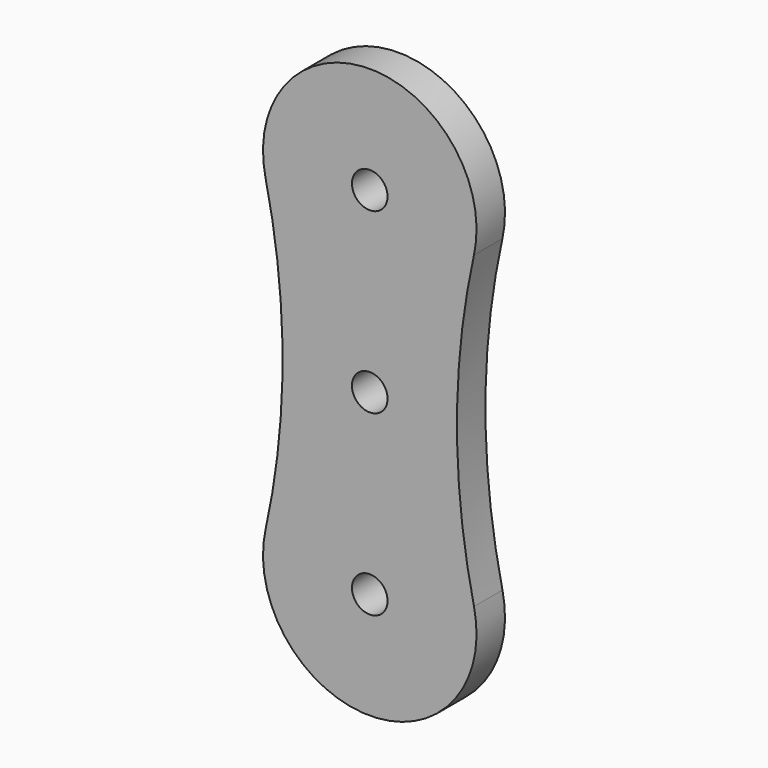
from build123d import *

# Parameters (mm, degrees)
F0_R     = 25.4
F1_DEPTH = 50.8


with BuildPart() as f1:
    # F0 (on Front) → F1 (new body)
    with BuildSketch(Plane.XZ):
        with BuildLine():
            ThreePointArc((-148.755283, 474.869565), (-124.457171, 254), (-148.755283, 33.130435))
            ThreePointArc((-148.755283, 33.130435), (0, -152.4), (148.755283, 33.130435))
            ThreePointArc((148.755283, 33.130435), (124.457171, 254), (148.755283, 474.869565))
            ThreePointArc((148.755283, 474.869565), (0, 660.4), (-148.755283, 474.869565))
        make_face()
        Circle(F0_R, mode=Mode.SUBTRACT)
        with Locations((0, 254)):
            Circle(F0_R, mode=Mode.SUBTRACT)
        with Locations((0, 508)):
            Circle(F0_R, mode=Mode.SUBTRACT)
    extrude(amount=F1_DEPTH)


solid = f1.part
